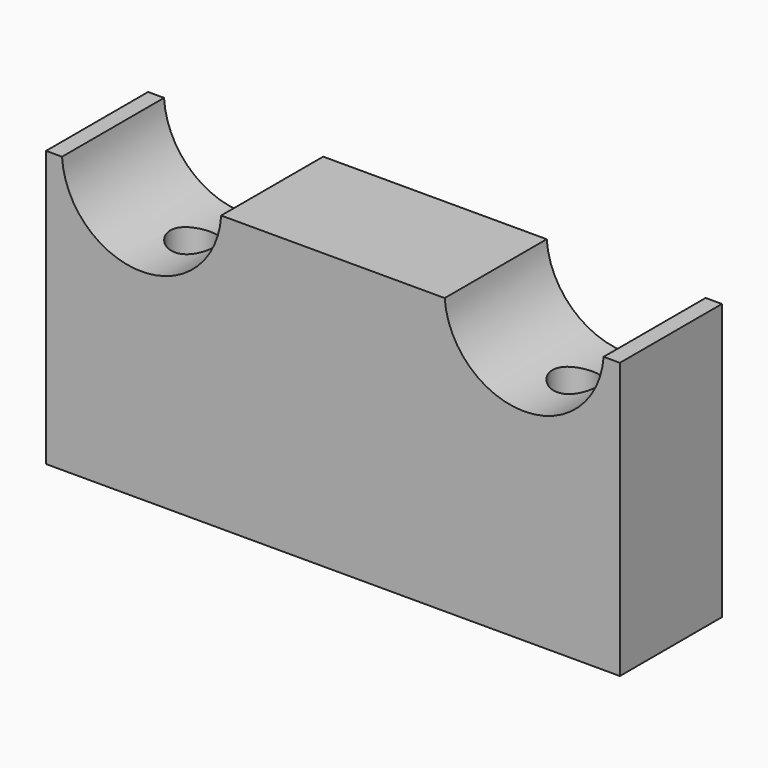
from build123d import *

# Parameters (mm, degrees)
F0_W     = 90
F0_H     = 43.25
F1_DEPTH = 10
F2_R     = 12.5
F3_DEPTH = 15
F4_R     = 3.5
F5_DEPTH = 40


with BuildPart() as f1:
    # F0 (on Front) → F1 (new body, symmetric)
    with BuildSketch(Plane.XZ):
        Rectangle(F0_W, F0_H)
    extrude(amount=F1_DEPTH, both=True)

    # F2 (on Front) → F3 (cut, symmetric)
    with BuildSketch(Plane.XZ):
        with Locations((-30.016759, 22.333868)):
            Circle(F2_R)
        with Locations((29.983241, 22.534277)):
            Circle(F2_R)
    extrude(amount=F3_DEPTH, both=True, mode=Mode.SUBTRACT)

    # F4 (on Top) → F5 (cut, symmetric)
    with BuildSketch(Plane.XY):
        with Locations((-29.996643, 0)):
            Circle(F4_R)
        with Locations((29.950126, 0)):
            Circle(F4_R)
    extrude(amount=F5_DEPTH, both=True, mode=Mode.SUBTRACT)


solid = f1.part
